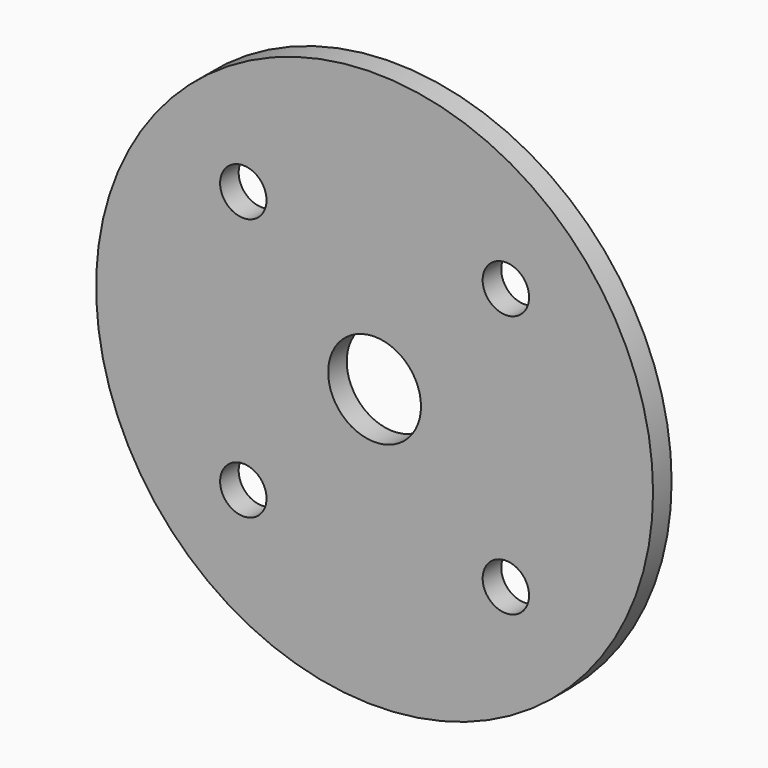
from build123d import *

# Parameters (mm, degrees)
F0_R     = 76.2
F0_R_2   = 6.35
F0_R_3   = 12.7
F1_DEPTH = 6.35


with BuildPart() as f1:
    # F0 (on Front) → F1 (new body)
    with BuildSketch(Plane.XZ):
        Circle(F0_R)
        with Locations((-35.921024, -35.921024)):
            Circle(F0_R_2, mode=Mode.SUBTRACT)
        with Locations((35.921024, -35.921024)):
            Circle(F0_R_2, mode=Mode.SUBTRACT)
        with Locations((-35.921024, 35.921024)):
            Circle(F0_R_2, mode=Mode.SUBTRACT)
        Circle(F0_R_3, mode=Mode.SUBTRACT)
        with Locations((35.921024, 35.921024)):
            Circle(F0_R_2, mode=Mode.SUBTRACT)
    extrude(amount=F1_DEPTH)


solid = f1.part
